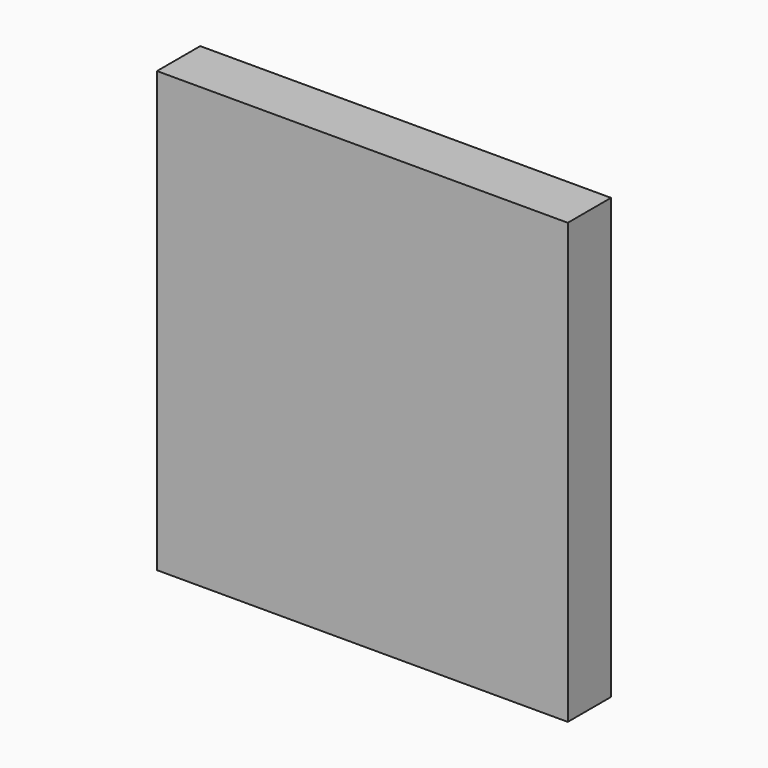
from build123d import *

# Parameters (mm, degrees)
F0_W     = 193.1039988995
F0_H     = 206.5657377243
F0_R     = 67.9099632838
F1_DEPTH = 25.4


with BuildPart() as f1:
    # F0 (on Front) → F1 (new body)
    with BuildSketch(Plane.XZ):
        Rectangle(F0_W, F0_H)
        Circle(F0_R, mode=Mode.SUBTRACT)
        Circle(F0_R)
    extrude(amount=F1_DEPTH)


solid = f1.part
